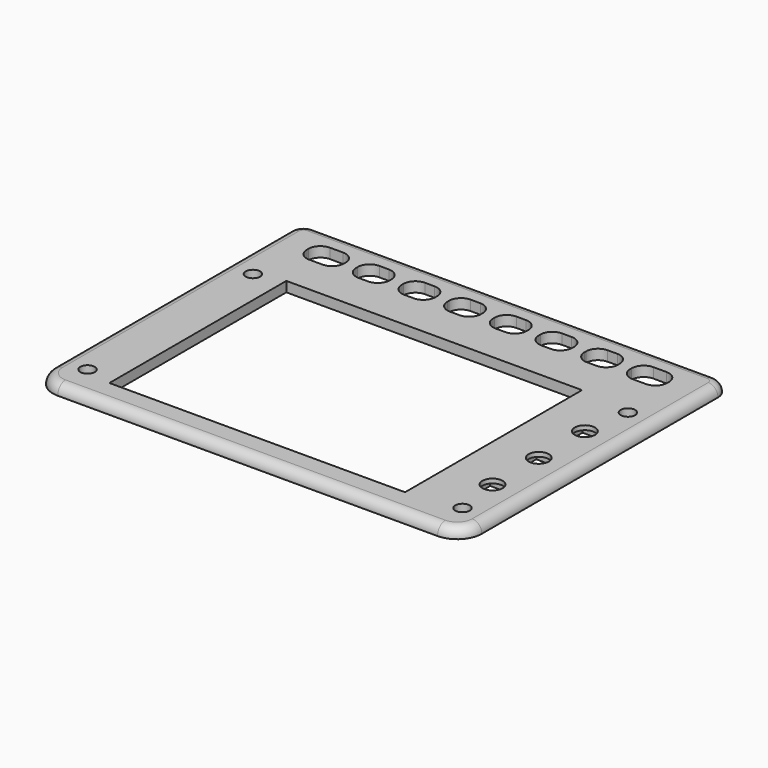
from build123d import *

# Parameters (mm, degrees)
F0_R     = 1.5
F0_W     = 5
F0_H     = 5
F0_W_2   = 7.5
F0_H_2   = 18
F0_W_3   = 2.1
F0_W_4   = 2.5
F0_H_3   = 5.4
F0_R_2   = 2.1
F1_DEPTH = 2.1
F2_R     = 2
F3_R     = 2.5
F4_DEPTH = 1.2


with BuildPart() as f1:
    # F0 (on Top) → F1 (new body)
    with BuildSketch(Plane.XY):
        with BuildLine():
            Line((39.5, -26.5), (35, -26.5))
            Line((35, -26.5), (-35, -26.5))
            Line((-35, -26.5), (-39.5, -26.5))
            ThreePointArc((-39.5, -26.5), (-41.6213203436, -25.6213203436), (-42.5, -23.5))
            Line((-42.5, -23.5), (-42.5, -9))
            Line((-42.5, -9), (-44.6, -9))
            Line((-44.6, -9), (-44.6, -23.5))
            ThreePointArc((-44.6, -23.5), (-43.1062445841, -27.1062445841), (-39.5, -28.6))
            Line((-39.5, -28.6), (39.5, -28.6))
            ThreePointArc((39.5, -28.6), (43.1062445841, -27.1062445841), (44.6, -23.5))
            Line((44.6, -23.5), (44.6, 23.5))
            Line((44.6, 23.5), (44.6, 37.9))
            ThreePointArc((44.6, 37.9), (43.7213203436, 40.0213203436), (41.6, 40.9))
            Line((41.6, 40.9), (0, 40.9))
            Line((0, 40.9), (-41.6, 40.9))
            ThreePointArc((-41.6, 40.9), (-43.7213203436, 40.0213203436), (-44.6, 37.9))
            Line((-44.6, 37.9), (-44.6, 31.15))
            Line((-44.6, 31.15), (-42.5, 31.15))
            Line((-42.5, 31.15), (-42.5, 36.1))
            ThreePointArc((-42.5, 36.1), (-41.6213203436, 38.2213203436), (-39.5, 39.1))
            Line((-39.5, 39.1), (0, 39.1))
            Line((0, 39.1), (39.5, 39.1))
            ThreePointArc((39.5, 39.1), (41.6213203436, 38.2213203436), (42.5, 36.1))
            Line((42.5, 36.1), (42.5, 28.6))
            Line((42.5, 28.6), (42.5, 23.5))
            Line((42.5, 23.5), (42.5, -23.5))
            ThreePointArc((42.5, -23.5), (41.6213203436, -25.6213203436), (39.5, -26.5))
        make_face()
        with BuildLine():
            Line((-35, 26.5), (-39.5, 26.5))
            ThreePointArc((-39.5, 26.5), (-41.6213203436, 25.6213203436), (-42.5, 23.5))
            Line((-42.5, 23.5), (-42.5, 9))
            Line((-42.5, 9), (-35, 9))
            Line((-35, 9), (-35, 26.5))
        make_face()
        with Locations((-39, 21.5)):
            Circle(F0_R, mode=Mode.SUBTRACT)
        with BuildLine():
            Line((-35, -26.5), (-35, -9))
            Line((-35, -9), (-42.5, -9))
            Line((-42.5, -9), (-42.5, -23.5))
            ThreePointArc((-42.5, -23.5), (-41.6213203436, -25.6213203436), (-39.5, -26.5))
            Line((-39.5, -26.5), (-35, -26.5))
        make_face()
        with Locations((-39, -21.5)):
            Circle(F0_R, mode=Mode.SUBTRACT)
        with BuildLine():
            Line((39.5, 26.5), (35, 26.5))
            Line((35, 26.5), (35, -26.5))
            Line((35, -26.5), (39.5, -26.5))
            ThreePointArc((39.5, -26.5), (41.6213203436, -25.6213203436), (42.5, -23.5))
            Line((42.5, -23.5), (42.5, 23.5))
            ThreePointArc((42.5, 23.5), (41.6213203436, 25.6213203436), (39.5, 26.5))
        make_face()
        with Locations((39, -21.5)):
            Circle(F0_R, mode=Mode.SUBTRACT)
        with Locations((37.65, -12)):
            Rectangle(F0_W, F0_H, mode=Mode.SUBTRACT)
        with Locations((37.65, 0)):
            Rectangle(F0_W, F0_H, mode=Mode.SUBTRACT)
        with Locations((37.65, 12)):
            Rectangle(F0_W, F0_H, mode=Mode.SUBTRACT)
        with Locations((39, 21.5)):
            Circle(F0_R, mode=Mode.SUBTRACT)
        with BuildLine():
            ThreePointArc((-42.5, 23.5), (-41.6213203436, 25.6213203436), (-39.5, 26.5))
            Line((-39.5, 26.5), (-35, 26.5))
            Line((-35, 26.5), (35, 26.5))
            Line((35, 26.5), (39.5, 26.5))
            ThreePointArc((39.5, 26.5), (41.6213203436, 25.6213203436), (42.5, 23.5))
            Line((42.5, 23.5), (42.5, 28.6))
            Line((42.5, 28.6), (39.5, 28.6))
            Line((39.5, 28.6), (-39.5, 28.6))
            Line((-39.5, 28.6), (-42.5, 28.6))
            Line((-42.5, 28.6), (-42.5, 23.5))
        make_face()
        with BuildLine():
            add(Edge.make_bspline(
                [(-39.5, 28.6), (-37.9241914811, 28.6), (-37.1137756714, 31.15)],
                knots=[3.1415926536, 3.1415926536, 3.1415926536, 4.1722144101, 4.1722144101, 4.1722144101], degree=2, weights=[1, 0.8701395619, 1]))
            Line((-39.5, 28.6), (39.5, 28.6))
            Line((39.5, 28.6), (42.5, 28.6))
            Line((42.5, 28.6), (42.5, 36.1))
            ThreePointArc((42.5, 36.1), (41.6213203436, 38.2213203436), (39.5, 39.1))
            Line((39.5, 39.1), (0, 39.1))
            Line((0, 39.1), (-39.5, 39.1))
            add(Edge.make_bspline(
                [(-37.1137756714, 36.55), (-37.9241914811, 39.1), (-39.5, 39.1)],
                knots=[5.2525635507, 5.2525635507, 5.2525635507, 6.2831853072, 6.2831853072, 6.2831853072], degree=2, weights=[1, 0.8701395619, 1]))
            Line((-37.1137756714, 36.55), (-29.75, 36.55))
            Line((-29.75, 36.55), (-27.25, 36.55))
            Line((-27.25, 36.55), (-20.25, 36.55))
            Line((-20.25, 36.55), (-17.75, 36.55))
            Line((-17.75, 36.55), (-10.75, 36.55))
            Line((-10.75, 36.55), (-8.25, 36.55))
            Line((-8.25, 36.55), (-1.25, 36.55))
            Line((-1.25, 36.55), (1.25, 36.55))
            Line((1.25, 36.55), (8.25, 36.55))
            Line((8.25, 36.55), (10.75, 36.55))
            Line((10.75, 36.55), (17.75, 36.55))
            Line((17.75, 36.55), (20.25, 36.55))
            Line((20.25, 36.55), (27.25, 36.55))
            Line((27.25, 36.55), (29.75, 36.55))
            Line((29.75, 36.55), (37.5, 36.55))
            Line((37.5, 36.55), (37.5, 31.15))
            Line((37.5, 31.15), (29.75, 31.15))
            Line((29.75, 31.15), (28, 31.15))
            Line((28, 31.15), (27.25, 31.15))
            Line((27.25, 31.15), (20.25, 31.15))
            Line((20.25, 31.15), (18.5, 31.15))
            Line((18.5, 31.15), (17.75, 31.15))
            Line((17.75, 31.15), (10.75, 31.15))
            Line((10.75, 31.15), (9, 31.15))
            Line((9, 31.15), (8.25, 31.15))
            Line((8.25, 31.15), (1.25, 31.15))
            Line((1.25, 31.15), (-1.25, 31.15))
            Line((-1.25, 31.15), (-8.25, 31.15))
            Line((-8.25, 31.15), (-10.75, 31.15))
            Line((-10.75, 31.15), (-17.75, 31.15))
            Line((-17.75, 31.15), (-20.25, 31.15))
            Line((-20.25, 31.15), (-27.25, 31.15))
            Line((-27.25, 31.15), (-29.75, 31.15))
            Line((-29.75, 31.15), (-37.1137756714, 31.15))
        make_face()
        with BuildLine():
            ThreePointArc((-42.5, 23.5), (-41.6213203436, 25.6213203436), (-39.5, 26.5))
            Line((-39.5, 26.5), (-35, 26.5))
            Line((-35, 26.5), (35, 26.5))
            Line((35, 26.5), (39.5, 26.5))
            ThreePointArc((39.5, 26.5), (41.6213203436, 25.6213203436), (42.5, 23.5))
            Line((42.5, 23.5), (42.5, 28.6))
            Line((42.5, 28.6), (39.5, 28.6))
            Line((39.5, 28.6), (-39.5, 28.6))
            Line((-39.5, 28.6), (-42.5, 28.6))
            Line((-42.5, 28.6), (-42.5, 23.5))
        make_face()
        with BuildLine():
            Line((-42.5, 36.1), (-42.5, 31.15))
            Line((-42.5, 31.15), (-41.8862243286, 31.15))
            add(Edge.make_bspline(
                [(-39.5, 39.1), (-44.4128147941, 39.1), (-41.8862243286, 31.15)],
                knots=[0, 0, 0, 2.1109708971, 2.1109708971, 2.1109708971], degree=2, weights=[1, 0.4928053803, 1]))
            ThreePointArc((-39.5, 39.1), (-41.6213203436, 38.2213203436), (-42.5, 36.1))
        make_face()
        with Locations((-38.75, 0)):
            Rectangle(F0_W_2, F0_H_2)
        with Locations((-43.55, 0)):
            Rectangle(F0_W_3, F0_H_2)
        with BuildLine():
            add(Edge.make_bspline(
                [(-41.8862243286, 31.15), (-41.0758085189, 28.6), (-39.5, 28.6)],
                knots=[2.1109708971, 2.1109708971, 2.1109708971, 3.1415926536, 3.1415926536, 3.1415926536], degree=2, weights=[1, 0.8701395619, 1]))
            add(Edge.make_bspline(
                [(-39.5, 28.6), (-37.9241914811, 28.6), (-37.1137756714, 31.15)],
                knots=[3.1415926536, 3.1415926536, 3.1415926536, 4.1722144101, 4.1722144101, 4.1722144101], degree=2, weights=[1, 0.8701395619, 1]))
            Line((-37.1137756714, 31.15), (-37.5, 31.15))
            Line((-37.5, 31.15), (-41.8862243286, 31.15))
        make_face()
        Polygon((35, 26.5), (-35, 26.5), (-35, 9), (-35, -9), (-35, -26.5), (35, -26.5), align=None)
        Polygon((-33.25, 23), (0, 23), (28.25, 23), (28.25, -23), (-33.25, -23), align=None, mode=Mode.SUBTRACT)
        with Locations((-28.5, 33.85)):
            Rectangle(F0_W_4, F0_H_3)
        with Locations((-19, 33.85)):
            Rectangle(F0_W_4, F0_H_3)
        with Locations((-9.5, 33.85)):
            Rectangle(F0_W_4, F0_H_3)
        with Locations((0, 33.85)):
            Rectangle(F0_W_4, F0_H_3)
        Polygon((8.25, 36.55), (8.25, 31.15), (9, 31.15), (10.75, 31.15), (10.75, 36.55), align=None)
        Polygon((20.25, 36.55), (17.75, 36.55), (17.75, 31.15), (18.5, 31.15), (20.25, 31.15), align=None)
        Polygon((29.75, 36.55), (27.25, 36.55), (27.25, 31.15), (28, 31.15), (29.75, 31.15), align=None)
        with BuildLine():
            add(Edge.make_bspline(
                [(-39.5, 39.1), (-44.4128147941, 39.1), (-41.8862243286, 31.15)],
                knots=[0, 0, 0, 2.1109708971, 2.1109708971, 2.1109708971], degree=2, weights=[1, 0.4928053803, 1]))
            Line((-41.8862243286, 31.15), (-37.5, 31.15))
            Line((-37.5, 31.15), (-37.5, 36.55))
            Line((-37.5, 36.55), (-37.1137756714, 36.55))
            add(Edge.make_bspline(
                [(-37.1137756714, 36.55), (-37.9241914811, 39.1), (-39.5, 39.1)],
                knots=[5.2525635507, 5.2525635507, 5.2525635507, 6.2831853072, 6.2831853072, 6.2831853072], degree=2, weights=[1, 0.8701395619, 1]))
        make_face()
        with BuildLine():
            Line((-42.5, 31.15), (-42.5, 28.6))
            Line((-42.5, 28.6), (-39.5, 28.6))
            add(Edge.make_bspline(
                [(-41.8862243286, 31.15), (-41.0758085189, 28.6), (-39.5, 28.6)],
                knots=[2.1109708971, 2.1109708971, 2.1109708971, 3.1415926536, 3.1415926536, 3.1415926536], degree=2, weights=[1, 0.8701395619, 1]))
            Line((-41.8862243286, 31.15), (-42.5, 31.15))
        make_face()
        Polygon((-42.5, 9), (-42.5, 23.5), (-42.5, 28.6), (-42.5, 31.15), (-44.6, 31.15), (-44.6, 23.5), (-44.6, 9), align=None)
        with Locations((37.65, 12)):
            Rectangle(F0_W, F0_H)
        with Locations((37.65, 12)):
            Circle(F0_R_2, mode=Mode.SUBTRACT)
        with Locations((37.65, 0)):
            Rectangle(F0_W, F0_H)
        with Locations((37.65, 0)):
            Circle(F0_R_2, mode=Mode.SUBTRACT)
        with Locations((37.65, -12)):
            Rectangle(F0_W, F0_H)
        with Locations((37.65, -12)):
            Circle(F0_R_2, mode=Mode.SUBTRACT)
    extrude(amount=F1_DEPTH)

    # F2
    f2_edges = [f1.edges().sort_by_distance(p)[0] for p in [
        (-44.6, 7.2, 2.1),
    ]]
    fillet(f2_edges, radius=F2_R)

    # F3
    f3_edges = [f1.edges().sort_by_distance(p)[0] for p in [
        (-37.5, 36.55, 1.05),
        (-27.25, 36.55, 1.05),
        (-17.75, 36.55, 1.05),
        (-8.25, 36.55, 1.05),
        (1.25, 36.55, 1.05),
        (10.75, 36.55, 1.05),
        (20.25, 36.55, 1.05),
        (29.75, 36.55, 1.05),
        (37.5, 36.55, 1.05),
        (27.25, 36.55, 1.05),
        (17.75, 36.55, 1.05),
        (8.25, 36.55, 1.05),
        (-1.25, 36.55, 1.05),
        (-10.75, 36.55, 1.05),
        (-20.25, 36.55, 1.05),
        (-29.75, 36.55, 1.05),
        (-37.5, 31.15, 1.05),
        (-27.25, 31.15, 1.05),
        (-17.75, 31.15, 1.05),
        (-8.25, 31.15, 1.05),
        (1.25, 31.15, 1.05),
        (10.75, 31.15, 1.05),
        (29.75, 31.15, 1.05),
        (20.25, 31.15, 1.05),
        (37.5, 31.15, 1.05),
        (17.75, 31.15, 1.05),
        (27.25, 31.15, 1.05),
        (8.25, 31.15, 1.05),
        (-1.25, 31.15, 1.05),
        (-10.75, 31.15, 1.05),
        (-20.25, 31.15, 1.05),
        (-29.75, 31.15, 1.05),
    ]]
    fillet(f3_edges, radius=F3_R)

    # F0 (on Top) → F4 (cut)
    with BuildSketch(Plane.XY):
        with Locations((37.65, 12)):
            Rectangle(F0_W, F0_H)
        with Locations((37.65, 12)):
            Circle(F0_R_2, mode=Mode.SUBTRACT)
        with Locations((37.65, 0)):
            Rectangle(F0_W, F0_H)
        with Locations((37.65, 0)):
            Circle(F0_R_2, mode=Mode.SUBTRACT)
        with Locations((37.65, -12)):
            Rectangle(F0_W, F0_H)
        with Locations((37.65, -12)):
            Circle(F0_R_2, mode=Mode.SUBTRACT)
    extrude(amount=F4_DEPTH, mode=Mode.SUBTRACT)


solid = f1.part
